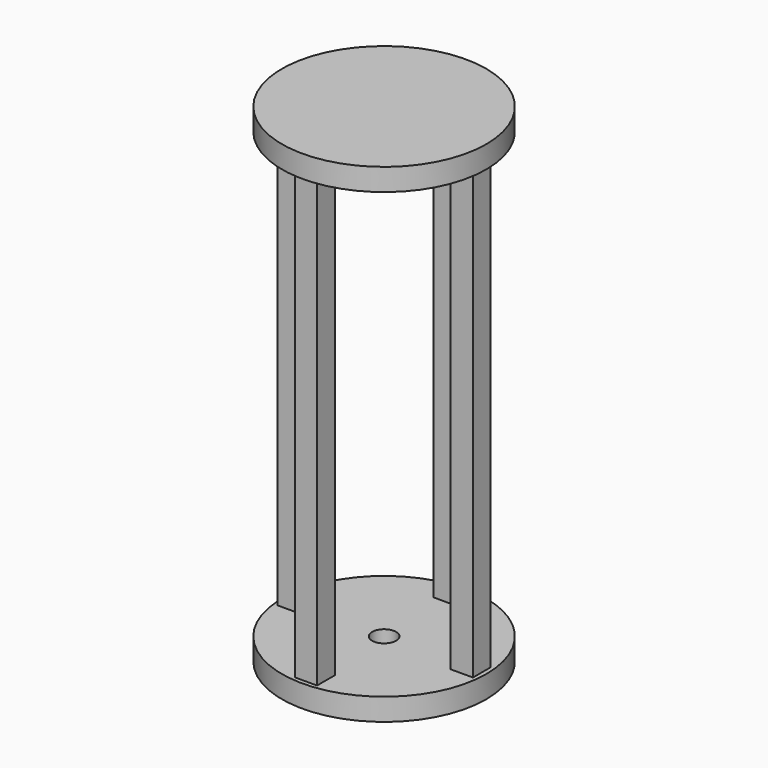
from build123d import *

# Parameters (mm, degrees)
SKETCH_R           = 23
PAD_DEPTH          = 5
SKETCH001_R        = 2.7
POCKET_DEPTH       = 5
SKETCH002_W        = 5
SKETCH002_H        = 5
PAD001_DEPTH       = 100
POLARPATTERN_COUNT = 4
SKETCH003_R        = 23
PAD002_DEPTH       = 5


with BuildPart() as part:
    # Sketch → Pad (new body)
    with BuildSketch(Plane.XY):
        Circle(SKETCH_R)
    extrude(amount=PAD_DEPTH)

    # Sketch001 → Pocket (cut)
    with BuildSketch(Plane.XY):
        Circle(SKETCH001_R)
    extrude(amount=POCKET_DEPTH, mode=Mode.SUBTRACT)

    # Sketch002 → Pad001 (join)
    with BuildSketch(Plane.XY.offset(5)):
        with Locations((19.5, 0)):
            Rectangle(SKETCH002_W, SKETCH002_H)
    pad001 = extrude(amount=PAD001_DEPTH)

    # PolarPattern: Pad001 ×4 about axis
    polarpattern_axis = Axis((0, 0, 0), (0, 0, 1))
    for i in range(1, POLARPATTERN_COUNT):
        add(pad001.rotate(polarpattern_axis, i * 360 / POLARPATTERN_COUNT))

    # Sketch003 → Pad002 (join)
    with BuildSketch(Plane.XY.offset(105)):
        Circle(SKETCH003_R)
    extrude(amount=PAD002_DEPTH)


solid = part.part
